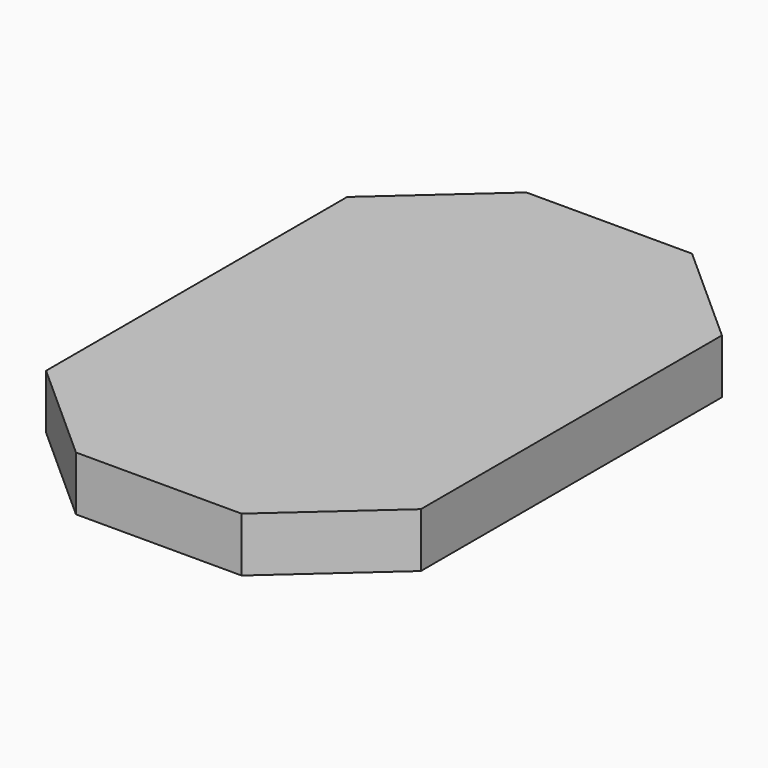
from build123d import *

# Parameters (mm, degrees)
F0_W     = 57.912
F0_H     = 32.6462263381
F0_W_2   = 36.5589186821
F0_H_2   = 131.572
F1_DEPTH = 19.05


with BuildPart() as f1:
    # F0 (on Top) → F1 (new body)
    with BuildSketch(Plane.XY):
        with Locations((0, 82.109113169)):
            Rectangle(F0_W, F0_H)
        with Locations((-47.2354593411, 0)):
            Rectangle(F0_W_2, F0_H_2)
        Polygon((-28.956, 65.786), (-28.956, 98.4322263381), (-65.5149186821, 65.786), align=None)
        Rectangle(F0_W, F0_H_2)
        with Locations((47.2354593411, 0)):
            Rectangle(F0_W_2, F0_H_2)
        Polygon((65.5149186821, 65.786), (28.956, 98.4322263381), (28.956, 65.786), align=None)
        Polygon((65.5149186821, -65.786), (28.956, -65.786), (28.956, -98.4322263381), align=None)
        with Locations((0, -82.109113169)):
            Rectangle(F0_W, F0_H)
        Polygon((-28.956, -98.4322263381), (-28.956, -65.786), (-65.5149186821, -65.786), align=None)
    extrude(amount=F1_DEPTH)


solid = f1.part
